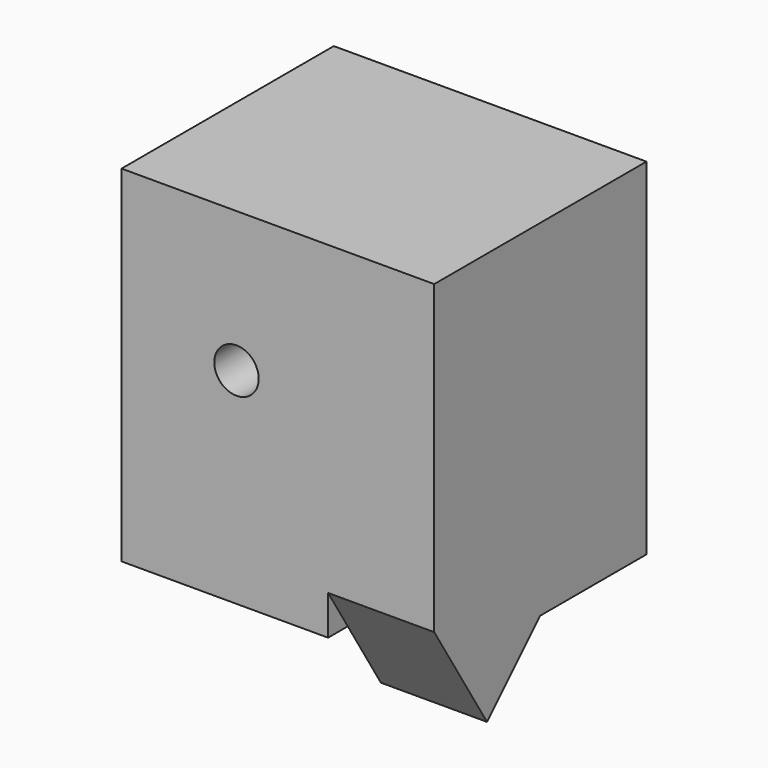
from build123d import *

# Parameters (mm, degrees)
F0_W     = 49.4375377893
F0_H     = 82.7705338597
F0_R     = 5.3178527772
F1_DEPTH = 63.5
F3_DEPTH = 25.4


with BuildPart() as f1:
    # F0 (on Front) → F1 (new body)
    with BuildSketch(Plane.XZ):
        with Locations((66.4746686816, 76.8526233733)):
            Rectangle(F0_W, F0_H)
        with Locations((69.267809391, 84.6316888928)):
            Circle(F0_R, mode=Mode.SUBTRACT)
    extrude(amount=F1_DEPTH)

    # F2 (on face) → F3 (join)
    with BuildSketch(Plane.YZ.offset(91.1934375763)):
        Polygon((-31.8296131558, 35.4673564434), (-57.6169989926, 35.4673564434), (-47.6989001036, 19.559789449), align=None)
        Polygon((-63.5, 118.2378903031), (-63.5, 99.6016029376), (-63.5, 44.9030591623), (-57.6169989926, 35.4673564434), (-31.8296131558, 35.4673564434), (0, 35.4673564434), (0, 118.2378903031), align=None)
    extrude(amount=F3_DEPTH)


solid = f1.part
